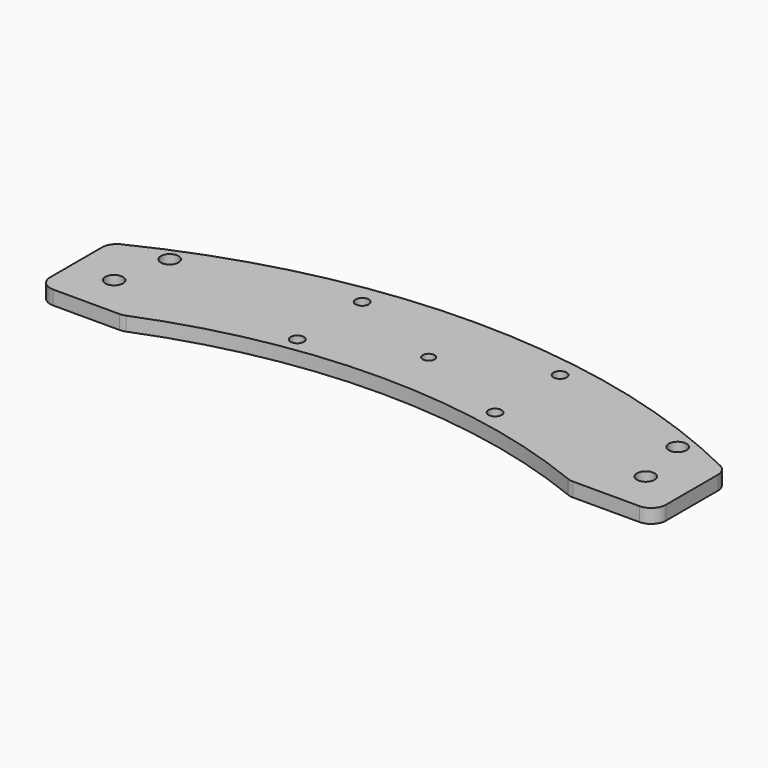
from build123d import *

# Parameters (mm, degrees)
PAD_DEPTH       = 4.763
SKETCH001_R     = 2.25
SKETCH001_R_2   = 3
POCKET_DEPTH    = 4.764
FILLET_R        = 5
SKETCH003_R     = 2
POCKET001_DEPTH = 2


with BuildPart() as part:
    # Sketch → Pad (new body)
    with BuildSketch(Plane.XY):
        with BuildLine():
            ThreePointArc((75.749521, 0), (0, 14.9), (-75.749521, 0))
            Line((-104.25, 0), (-75.749521, 0))
            Line((-104.25, 0), (-104.25, 30.01692))
            ThreePointArc((104.25, 30.01692), (0, 55), (-104.25, 30.01692))
            Line((104.25, 30.01692), (104.25, 0))
            Line((75.749521, 0), (104.25, 0))
        make_face()
    extrude(amount=PAD_DEPTH)

    # Sketch001 (on Face8 of Pad) → Pocket (cut, through all)
    with BuildSketch(Plane.XY.offset(4.763)):
        with Locations((-31, 45.5)):
            Circle(SKETCH001_R)
        with Locations((36, 45.5)):
            Circle(SKETCH001_R)
        with Locations((36, 18)):
            Circle(SKETCH001_R)
        with Locations((-31, 18)):
            Circle(SKETCH001_R)
        with Locations((-90, 14.25)):
            Circle(SKETCH001_R_2)
        with Locations((-86, 32.75)):
            Circle(SKETCH001_R_2)
        with Locations((86, 32.75)):
            Circle(SKETCH001_R_2)
        with Locations((90, 14.25)):
            Circle(SKETCH001_R_2)
    extrude(amount=-POCKET_DEPTH, mode=Mode.SUBTRACT)

    # Fillet
    fillet_edges = [part.edges().sort_by_distance(p)[0] for p in [
        (-104.25, 30.01692, 2.3815),
        (-104.25, 0, 2.3815),
        (104.25, 30.01692, 2.3815),
        (-75.749521, 0, 2.3815),
        (75.749521, 0, 2.3815),
        (104.25, 0, 2.3815),
    ]]
    fillet(fillet_edges, radius=FILLET_R)

    # Sketch003 (on Face5 of Fillet) → Pocket001 (cut)
    with BuildSketch(Plane.XY.offset(4.763)):
        with Locations((2.5, 31.75)):
            Circle(SKETCH003_R)
    extrude(amount=-POCKET001_DEPTH, mode=Mode.SUBTRACT)


solid = part.part
